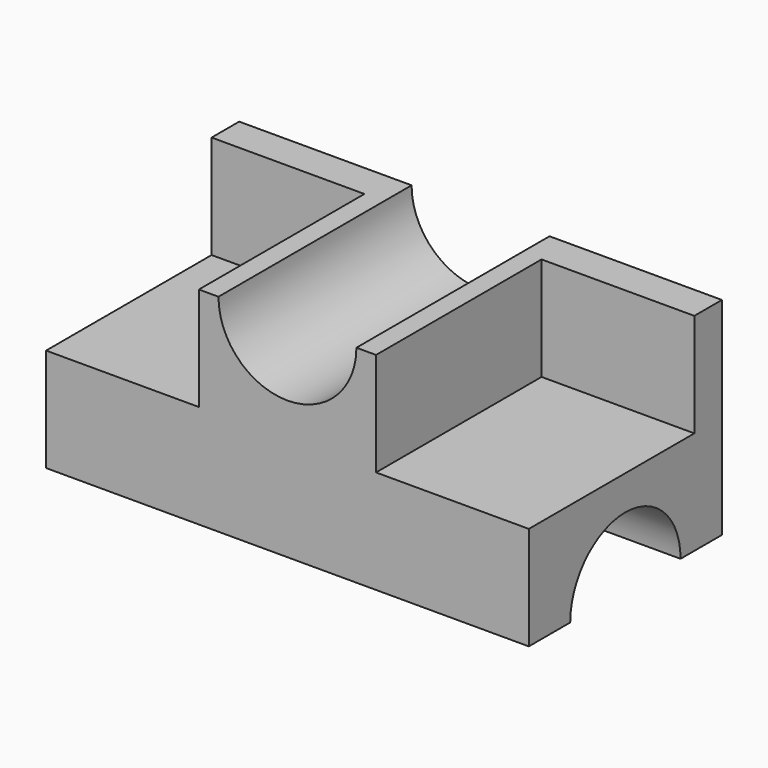
from build123d import *

# Parameters (mm, degrees)
F1_DEPTH = 70
F2_W     = 25.690172
F2_H     = 30
F3_DEPTH = 60
F6_DEPTH = 70.001


with BuildPart() as f1:
    # F0 (on Right) → F1 (new body, symmetric)
    with BuildSketch(Plane.YZ):
        with BuildLine():
            Line((10, 30), (0, 30))
            Line((0, 30), (0, 0))
            Line((0, 0), (-60, 0))
            Line((-60, 0), (-60, -30))
            Line((-60, -30), (-45, -30))
            ThreePointArc((-45, -30), (-25, -10), (-5, -30))
            Line((-5, -30), (0, -30))
            Line((0, -30), (10, -30))
            Line((10, -30), (10, 30))
        make_face()
    extrude(amount=F1_DEPTH, both=True)

    # F2 (on face) → F3 (join)
    with BuildSketch(Plane.XZ):
        with Locations((12.845086, 15)):
            Rectangle(F2_W, F2_H)
    extrude(amount=F3_DEPTH)

    # F4: F1 across plane


with BuildPart() as f1_1:
    add(f1.part)
    add(f1.part.mirror(Plane.YZ))

    # F5 (on face) → F6 (cut, through all)
    with BuildSketch(Plane.XZ.offset(60)):
        with BuildLine():
            Line((20, 30), (-20, 30))
            ThreePointArc((-20, 30), (0, 10), (20, 30))
        make_face()
    extrude(amount=-F6_DEPTH, mode=Mode.SUBTRACT)


solid = f1_1.part
